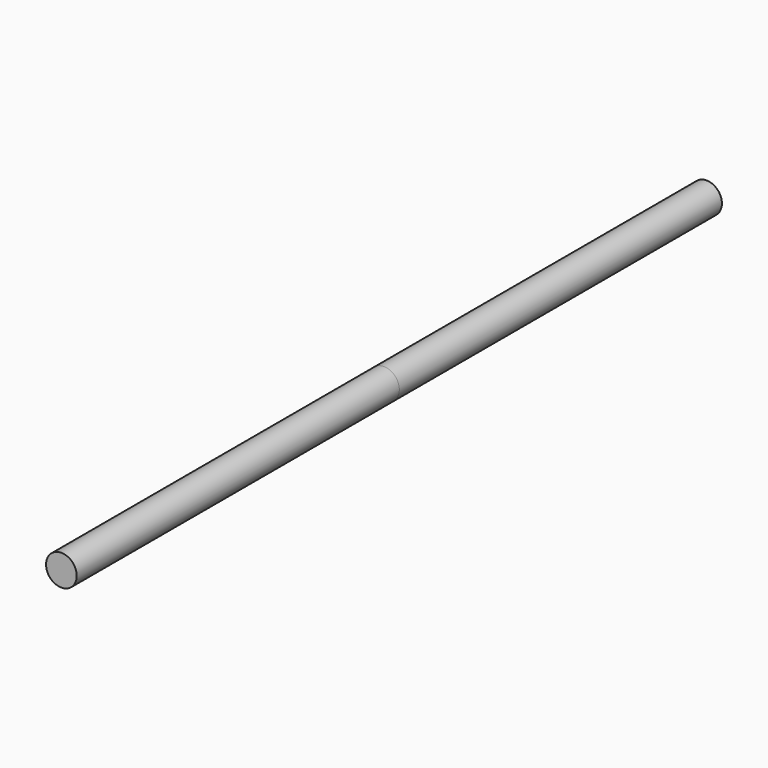
from build123d import *

# Parameters (mm, degrees)
F0_R          = 19.0321476095
F1_DEPTH      = 500
F1_DEPTH_BACK = 500


with BuildPart() as f1:
    # F0 (on Front) → F1 (new body, two sides)
    with BuildSketch(Plane.XZ) as f1_sk:
        Circle(F0_R)
    extrude(amount=-F1_DEPTH)
    extrude(f1_sk.sketch, amount=F1_DEPTH_BACK)


with BuildPart() as f2_1:
    # F2: copy of F1
    add(f1.part)


solid = Compound([f1.part, f2_1.part])
